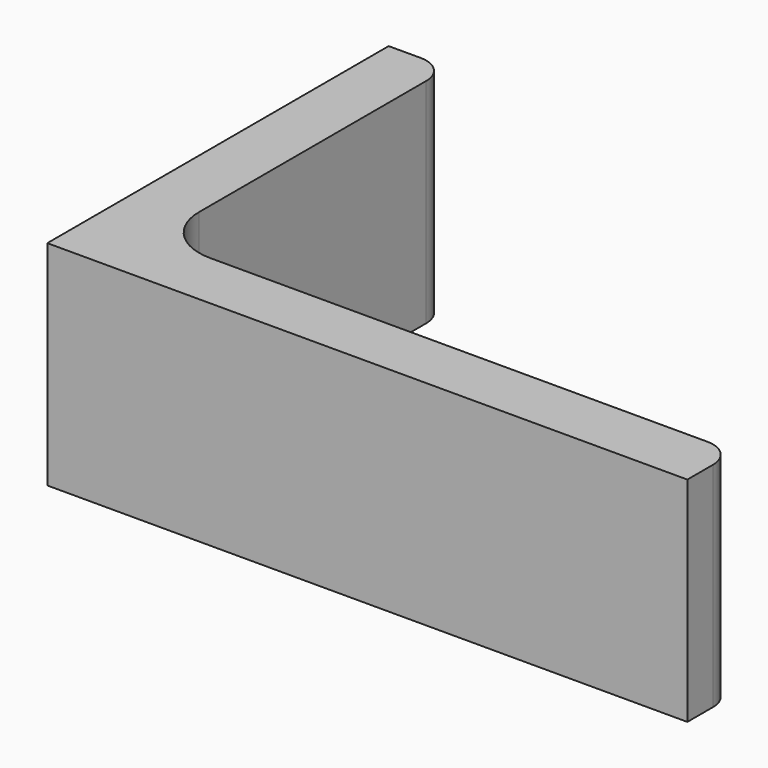
from build123d import *

# Parameters (mm, degrees)
EXTRUDE_DEPTH = 50


with BuildPart() as part:
    # Sketch → Extrude (new body)
    with BuildSketch(Plane.XY):
        with BuildLine():
            Line((0, 0), (150, 0))
            Line((150, 0), (150, 7.5))
            ThreePointArc((150, 7.5), (148.096194, 12.096194), (143.5, 14))
            Line((143.5, 14), (27, 14))
            ThreePointArc((14, 27), (17.807612, 17.807612), (27, 14))
            Line((14, 93.5), (14, 27))
            ThreePointArc((14, 93.5), (12.096194, 98.096194), (7.5, 100))
            Line((0, 100), (7.5, 100))
            Line((0, 0), (0, 100))
        make_face()
    extrude(amount=EXTRUDE_DEPTH)


solid = part.part
